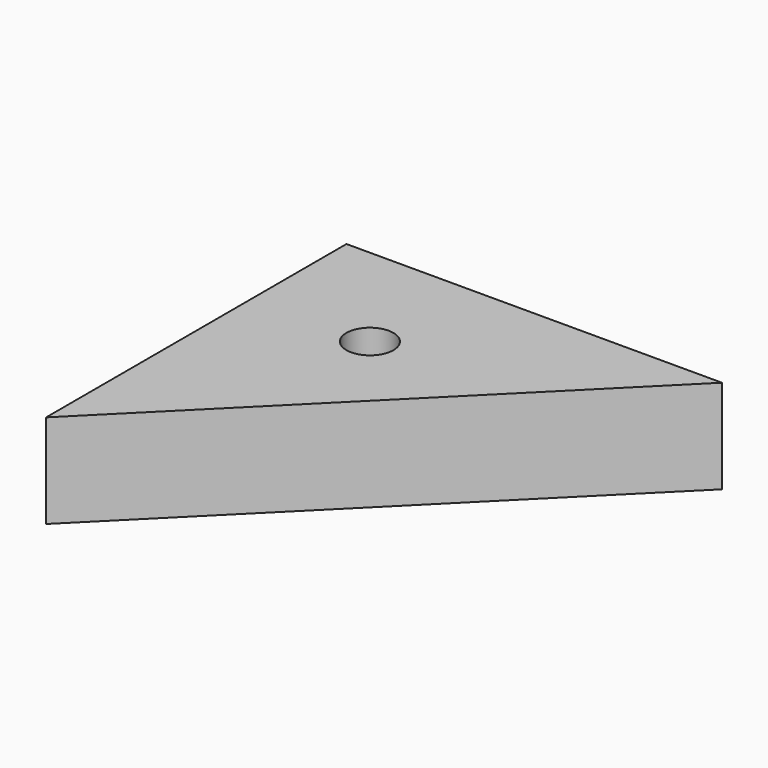
from build123d import *

# Parameters (mm, degrees)
F1_DEPTH = 25.4
F2_R     = 6.35
F3_DEPTH = 25.4


with BuildPart() as f1:
    # F0 (on Top) → F1 (new body)
    with BuildSketch(Plane.XY):
        Polygon((0, 101.6), (0, 0), (101.6, 101.6), align=None)
    extrude(amount=F1_DEPTH)

    # F2 (on face) → F3 (cut)
    with BuildSketch(Plane.XY.offset(25.4)):
        with Locations((31.75, 69.85)):
            Circle(F2_R)
    extrude(amount=-F3_DEPTH, mode=Mode.SUBTRACT)


solid = f1.part
